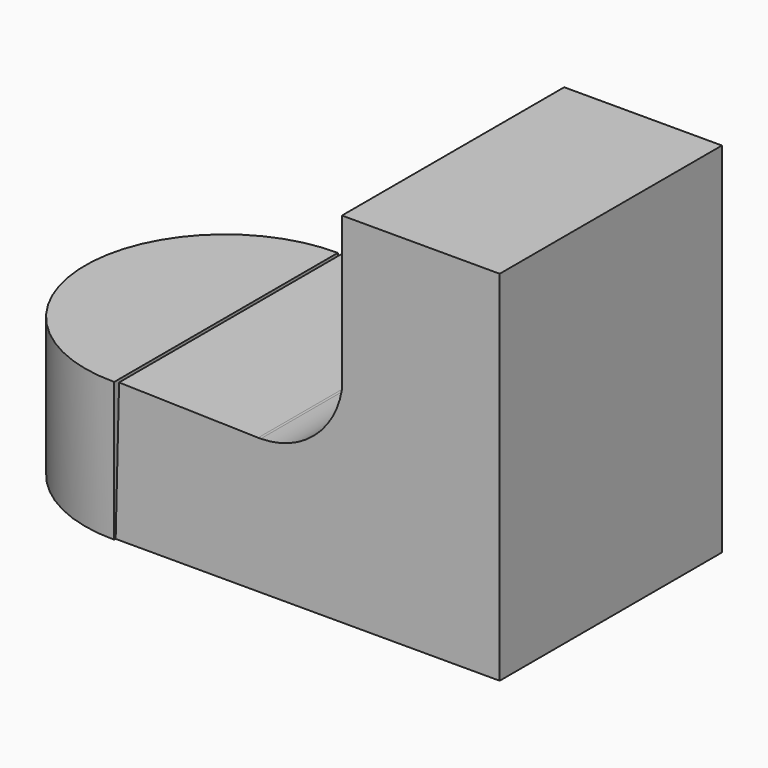
from build123d import *

# Parameters (mm, degrees)
F3_DEPTH = 25.4
F5_DEPTH = 12.7
F6_DEPTH = 12.7
F7_DEPTH = 12.7


with BuildPart() as f3:
    # F2 (on Front) → F3 (new body)
    with BuildSketch(Plane.XZ):
        with BuildLine():
            Line((-34.796807, 12.69613), (-35.110293, 0))
            Line((-35.110293, 0), (0, 0))
            Line((0, 0), (0, 32.759152))
            Line((0, 32.759152), (-14.420303, 32.759152))
            Line((-14.420303, 32.759152), (-14.420303, 21.238586))
            ThreePointArc((-14.420303, 21.238586), (-14.31718, 19.990023), (-14.420303, 18.74146))
            Line((-14.420303, 18.74146), (-14.420303, 12.461014))
            Line((-14.420303, 12.461014), (-21.844627, 12.380474))
            ThreePointArc((-21.844627, 12.380474), (-21.961429, 12.380244), (-22.078218, 12.38209))
            Line((-22.078218, 12.38209), (-34.796807, 12.69613))
        make_face()
        with BuildLine():
            ThreePointArc((-14.420303, 18.74146), (-16.975877, 14.211037), (-21.844627, 12.380474))
            Line((-21.844627, 12.380474), (-14.420303, 12.461014))
            Line((-14.420303, 12.461014), (-14.420303, 18.74146))
        make_face()
        with BuildLine():
            ThreePointArc((-14.420303, 18.74146), (-14.31718, 19.990023), (-14.420303, 21.238586))
            Line((-14.420303, 21.238586), (-14.420303, 18.74146))
        make_face()
    extrude(amount=F3_DEPTH)


with BuildPart() as f5:
    # F4 (on Top) → F5 (new body)
    with BuildSketch(Plane.XY):
        with BuildLine():
            Line((-35.113923, -25.56259), (-35.113923, 0))
            ThreePointArc((-35.113923, 0), (-47.988266, -12.781295), (-35.113923, -25.56259))
        make_face()
    extrude(amount=F5_DEPTH)


with BuildPart() as f6:
    # F4 (on Top) → F6 (new body)
    with BuildSketch(Plane.XY):
        with BuildLine():
            Line((-35.113923, -25.56259), (-35.113923, 0))
            ThreePointArc((-35.113923, 0), (-47.988266, -12.781295), (-35.113923, -25.56259))
        make_face()
    extrude(amount=F6_DEPTH)


with BuildPart() as f7:
    # F4 (on Top) → F7 (new body)
    with BuildSketch(Plane.XY):
        with BuildLine():
            Line((-35.113923, -25.56259), (-35.113923, 0))
            ThreePointArc((-35.113923, 0), (-47.988266, -12.781295), (-35.113923, -25.56259))
        make_face()
    extrude(amount=F7_DEPTH)


solid = Compound([f3.part, f5.part, f6.part, f7.part])
